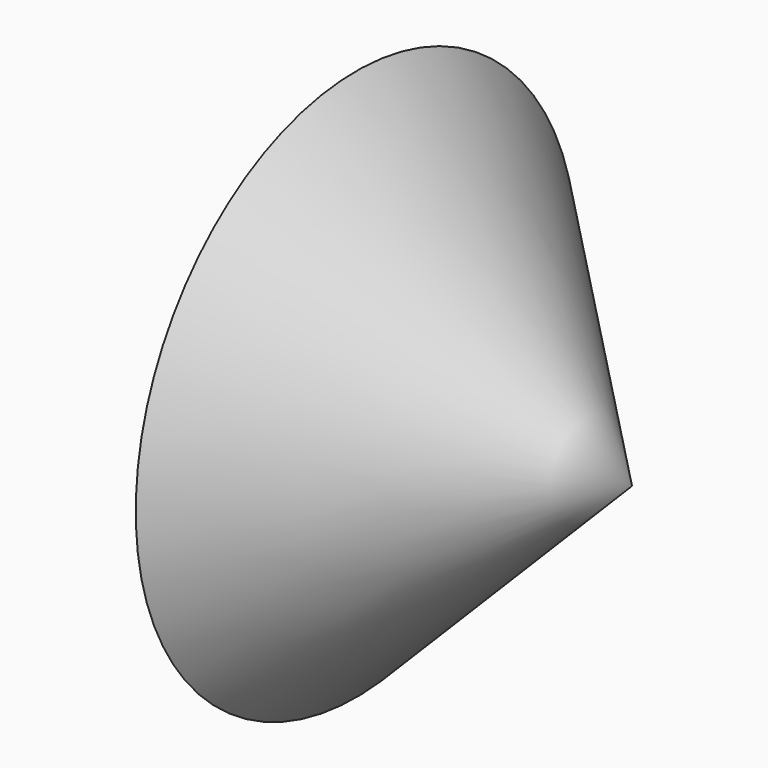
from build123d import *

# Parameters (mm, degrees)
SKETCH001_W = 142.252221
SKETCH001_H = 119.938137
PAD_DEPTH   = 25


with BuildPart() as pad:
    # Sketch001 → Pad (new body)
    with BuildSketch(Plane.YZ):
        with Locations((-0.633922, -1.648195)):
            Rectangle(SKETCH001_W, SKETCH001_H)
    extrude(amount=PAD_DEPTH)


with BuildPart() as cut:
    # Sketch → Revolution (revolve)
    with BuildSketch(Plane.XY):
        Polygon((0, 0), (0, 50), (50, 0), align=None)
    revolve(axis=Axis((0, 0, 0), (1, 0, 0)))

    # Cut: cut Pad
    add(pad.part, mode=Mode.SUBTRACT)


solid = cut.part
